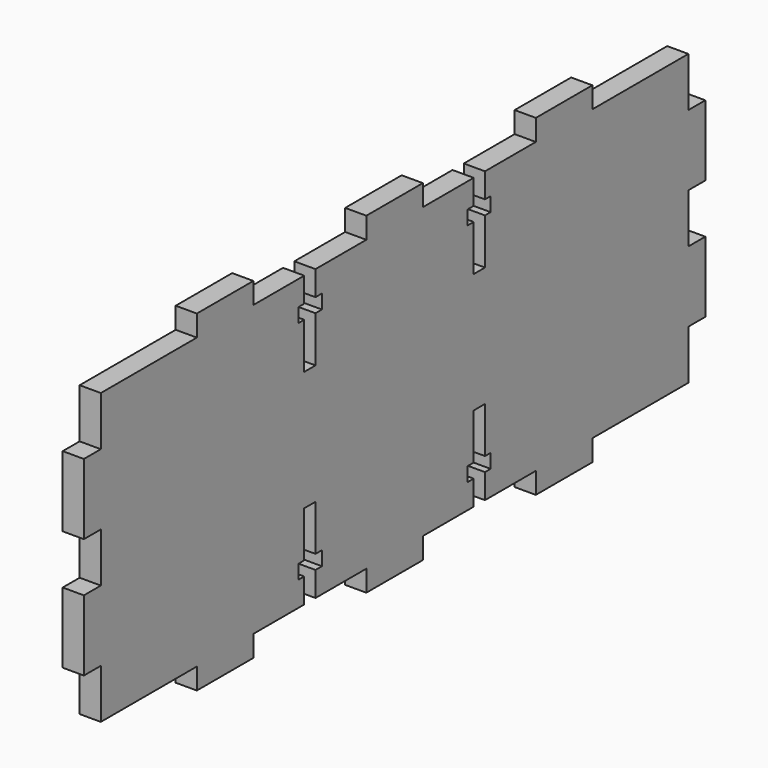
from build123d import *

# Parameters (mm, degrees)
F1_DEPTH = 3


with BuildPart() as f1:
    # F0 (on Right) → F1 (new body)
    with BuildSketch(Plane.YZ):
        Polygon((-52.377451, -13.384804), (-52.377451, -20.384804), (-35.377451, -20.384804), (-35.377451, -23.384804), (-25.377451, -23.384804), (-25.377451, -20.384804), (-16.377451, -20.384804), (-16.377451, -16.884804), (-17.377451, -16.884804), (-17.377451, -14.884804), (-16.377451, -14.884804), (-16.377451, -8.384804), (-14.377451, -8.384804), (-14.377451, -14.884804), (-13.239853, -14.884804), (-13.239853, -16.884804), (-14.377451, -16.884804), (-14.377451, -20.384804), (-5.377451, -20.384804), (-5.377451, -23.384804), (-0.377451, -23.384804), (4.622549, -23.384804), (4.622549, -20.384804), (13.622549, -20.384804), (13.622549, -16.884804), (12.484951, -16.884804), (12.484951, -14.884804), (13.622549, -14.884804), (13.622549, -8.384804), (15.622549, -8.384804), (15.622549, -14.884804), (16.622549, -14.884804), (16.622549, -16.884804), (15.622549, -16.884804), (15.622549, -20.384804), (24.622549, -20.384804), (24.622549, -23.384804), (34.622549, -23.384804), (34.622549, -20.384804), (51.622549, -20.384804), (51.622549, -13.384804), (54.622549, -13.384804), (54.622549, -3.384804), (51.622549, -3.384804), (51.622549, 0.115196), (51.622549, 3.615196), (54.622549, 3.615196), (54.622549, 13.615196), (51.622549, 13.615196), (51.622549, 20.615196), (34.622549, 20.615196), (34.622549, 23.615196), (24.622549, 23.615196), (24.622549, 20.615196), (15.622549, 20.615196), (15.622549, 17.115196), (16.622549, 17.115196), (16.622549, 15.115196), (15.622549, 15.115196), (15.622549, 8.615196), (13.622549, 8.615196), (13.622549, 15.115196), (12.484951, 15.115196), (12.484951, 17.115196), (13.622549, 17.115196), (13.622549, 20.615196), (4.622549, 20.615196), (4.622549, 23.615196), (-0.377451, 23.615196), (-5.377451, 23.615196), (-5.377451, 20.615196), (-14.377451, 20.615196), (-14.377451, 17.115196), (-13.239853, 17.115196), (-13.239853, 15.115196), (-14.377451, 15.115196), (-14.377451, 8.615196), (-16.377451, 8.615196), (-16.377451, 15.115196), (-17.377451, 15.115196), (-17.377451, 17.115196), (-16.377451, 17.115196), (-16.377451, 20.615196), (-25.377451, 20.615196), (-25.377451, 23.615196), (-35.377451, 23.615196), (-35.377451, 20.615196), (-52.377451, 20.615196), (-52.377451, 13.615196), (-55.377451, 13.615196), (-55.377451, 3.615196), (-52.377451, 3.615196), (-52.377451, 0.115196), (-52.377451, -3.384804), (-55.377451, -3.384804), (-55.377451, -13.384804), align=None)
    extrude(amount=F1_DEPTH)


solid = f1.part
